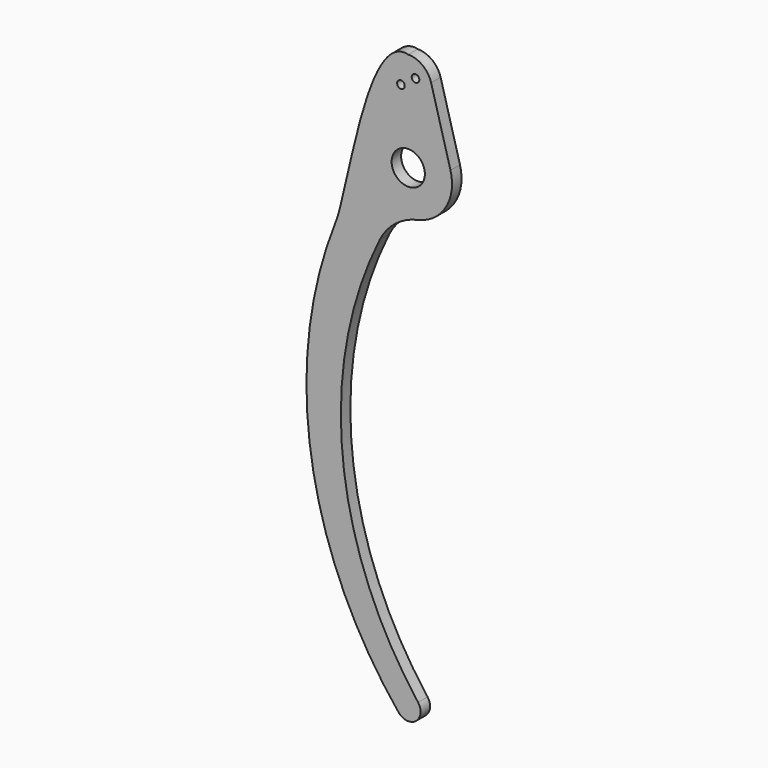
from build123d import *

# Parameters (mm, degrees)
F0_R     = 1.016
F1_DEPTH = 3.175


with BuildPart() as f1:
    # F0 (on Front) → F1 (new body)
    with BuildSketch(Plane.XZ):
        with BuildLine():
            Line((11.303, 3.096916), (6.124282, 21.997996))
            ThreePointArc((6.124282, 21.997996), (3.851443, 25.368652), (0, 26.67))
            add(Edge.make_bspline(
                [(0, 26.67), (-11.245353, 29.382879), (-15.981519, -11.110423), (-19.534193, -19.411723)],
                knots=[0, 0, 0, 0, 50.051073, 50.051073, 50.051073, 50.051073], degree=3))
            Line((-19.534193, -19.411723), (-7.62, -19.411723))
            ThreePointArc((-7.62, -19.411723), (-3.445364, -14.272335), (2.54, -11.441027))
            ThreePointArc((2.54, -11.441027), (10.037186, -6.05009), (11.303, 3.096916))
        make_face()
        with BuildLine():
            ThreePointArc((-4.445, 0), (0, 4.445), (4.445, 0))
            ThreePointArc((4.445, 0), (0, -4.445), (-4.445, 0))
        make_face(mode=Mode.SUBTRACT)
        with Locations((-1.950606, 18.954171)):
            Circle(F0_R, mode=Mode.SUBTRACT)
        with Locations((1.950606, 21.685829)):
            Circle(F0_R, mode=Mode.SUBTRACT)
        with BuildLine():
            Line((-7.62, -19.411723), (-19.534193, -19.411723))
            ThreePointArc((-19.534193, -19.411723), (-25.928156, -76.551612), (-2.560215, -129.085307))
            ThreePointArc((-2.560215, -129.085307), (2.045016, -129.592511), (2.624174, -124.995776))
            ThreePointArc((2.624174, -124.995776), (-17.550677, -73.664227), (-7.62, -19.411723))
        make_face()
    extrude(amount=F1_DEPTH)


solid = f1.part
